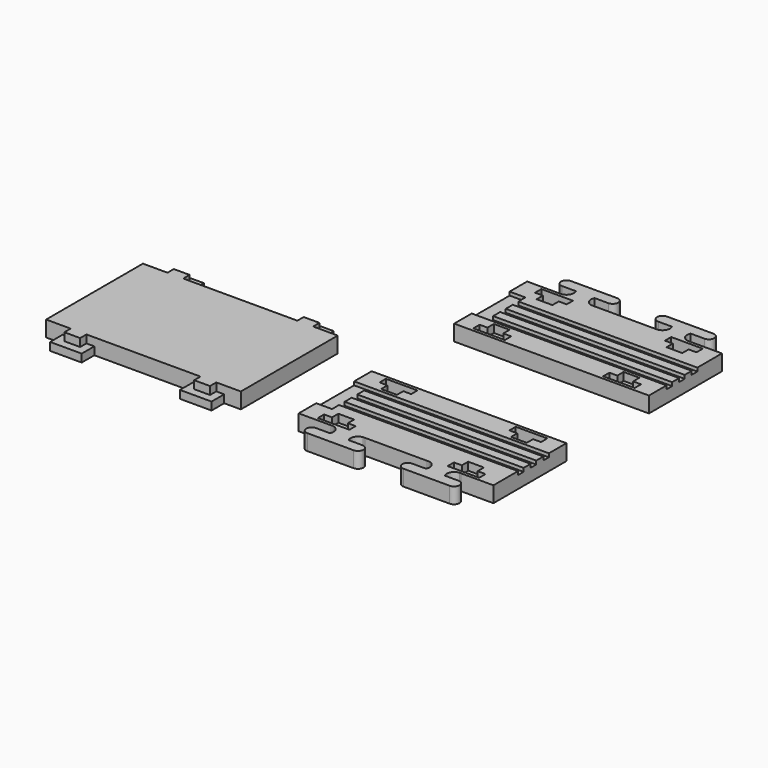
from build123d import *

# Parameters (mm, degrees)
F0_W     = 204
F0_H     = 10
F2_DEPTH = 18
F3_DEPTH = 9
F4_DEPTH = 14


with BuildPart() as f2:
    # F0 (on Top) + F1 (on Top) → F2 (new body)
    with BuildSketch(Plane.XY):
        with BuildLine():
            Line((46.081543, 12.5), (28.081543, 12.5))
            Line((28.081543, 12.5), (28.081543, -12.5))
            Line((28.081543, -12.5), (65.081543, -12.5))
            ThreePointArc((65.081543, -12.5), (66.057675, -12.444206), (67.033806, -12.5))
            ThreePointArc((67.033806, -12.5), (73.631966, -17.008573), (73.638971, -25))
            Line((73.638971, -25), (57.978767, -25))
            ThreePointArc((57.978767, -25), (51.728767, -31.25), (57.978767, -37.5))
            Line((57.978767, -37.5), (110.649899, -37.5))
            ThreePointArc((110.649899, -37.5), (116.899899, -31.25), (110.649899, -25))
            Line((110.649899, -25), (94.989694, -25))
            ThreePointArc((94.989694, -25), (94.996699, -17.008573), (101.594859, -12.5))
            ThreePointArc((101.594859, -12.5), (102.570991, -12.444206), (103.547122, -12.5))
            Line((103.547122, -12.5), (119.848753, -12.5))
            Line((119.848753, -12.5), (158.314333, -12.5))
            Line((158.314333, -12.5), (174.615964, -12.5))
            ThreePointArc((174.615964, -12.5), (175.592095, -12.444206), (176.568227, -12.5))
            ThreePointArc((176.568227, -12.5), (183.166387, -17.008573), (183.173392, -25))
            Line((183.173392, -25), (167.513187, -25))
            ThreePointArc((167.513187, -25), (161.263187, -31.25), (167.513187, -37.5))
            Line((167.513187, -37.5), (220.184319, -37.5))
            ThreePointArc((220.184319, -37.5), (226.434319, -31.25), (220.184319, -25))
            Line((220.184319, -25), (204.524115, -25))
            ThreePointArc((204.524115, -25), (204.53112, -17.008573), (211.12928, -12.5))
            ThreePointArc((211.12928, -12.5), (212.105411, -12.444206), (213.081543, -12.5))
            Line((213.081543, -12.5), (250.081543, -12.5))
            Line((250.081543, -12.5), (250.081543, 12.5))
            Line((250.081543, 12.5), (46.081543, 12.5))
        make_face()
        Polygon((83.081543, -9), (65.081543, -9), (47.081543, -9), (47.081543, 0), (56.081543, 0), (56.081543, 9), (65.081543, 9), (74.081543, 9), (74.081543, 0), (83.081543, 0), align=None, mode=Mode.SUBTRACT)
        Polygon((231.081543, -9), (213.081543, -9), (195.081543, -9), (195.081543, 0), (204.081543, 0), (204.081543, 9), (213.081543, 9), (222.081543, 9), (222.081543, 0), (231.081543, 0), align=None, mode=Mode.SUBTRACT)
        Polygon((176.081543, 91.5), (102.081543, 91.5), (28.081543, 91.5), (28.081543, 66.5), (250.081543, 66.5), (250.081543, 91.5), align=None)
        Polygon((47.081543, 88), (65.081543, 88), (83.081543, 88), (83.081543, 79), (74.081543, 79), (74.081543, 70), (65.081543, 70), (56.081543, 70), (56.081543, 79), (47.081543, 79), align=None, mode=Mode.SUBTRACT)
        Polygon((195.081543, 88), (213.081543, 88), (231.081543, 88), (231.081543, 79), (222.081543, 79), (222.081543, 70), (213.081543, 70), (204.081543, 70), (204.081543, 79), (195.081543, 79), align=None, mode=Mode.SUBTRACT)
        with Locations((148.081543, 53.5)):
            Rectangle(F0_W, F0_H)
        with Locations((148.081543, 35.5)):
            Rectangle(F0_W, F0_H)
        with Locations((148.081543, 17.5)):
            Rectangle(F0_W, F0_H)
        Polygon((250.081543, 234.038093), (28.081543, 234.038093), (28.081543, 209.038093), (102.081543, 209.038093), (176.081543, 209.038093), (250.081543, 209.038093), align=None)
        Polygon((83.081543, 221.538093), (83.081543, 212.538093), (65.081543, 212.538093), (47.081543, 212.538093), (47.081543, 221.538093), (56.081543, 221.538093), (56.081543, 230.538093), (65.081543, 230.538093), (74.081543, 230.538093), (74.081543, 221.538093), align=None, mode=Mode.SUBTRACT)
        Polygon((222.081543, 221.538093), (231.081543, 221.538093), (231.081543, 212.538093), (213.081543, 212.538093), (195.081543, 212.538093), (195.081543, 221.538093), (204.081543, 221.538093), (204.081543, 230.538093), (213.081543, 230.538093), (222.081543, 230.538093), align=None, mode=Mode.SUBTRACT)
        with Locations((148.081543, 247.038093)):
            Rectangle(F0_W, F0_H)
        with Locations((148.081543, 265.038093)):
            Rectangle(F0_W, F0_H)
        with Locations((148.081543, 283.038093)):
            Rectangle(F0_W, F0_H)
        with BuildLine():
            ThreePointArc((183.173392, 325.538093), (183.166387, 317.546666), (176.568227, 313.038093))
            ThreePointArc((176.568227, 313.038093), (175.592095, 312.982299), (174.615964, 313.038093))
            Line((174.615964, 313.038093), (158.314333, 313.038093))
            Line((158.314333, 313.038093), (119.848753, 313.038093))
            Line((119.848753, 313.038093), (103.547122, 313.038093))
            ThreePointArc((103.547122, 313.038093), (95.502076, 316.709684), (94.989694, 325.538093))
            Line((94.989694, 325.538093), (110.649899, 325.538093))
            ThreePointArc((110.649899, 325.538093), (116.899899, 331.788093), (110.649899, 338.038093))
            Line((110.649899, 338.038093), (57.978767, 338.038093))
            ThreePointArc((57.978767, 338.038093), (51.728767, 331.788093), (57.978767, 325.538093))
            Line((57.978767, 325.538093), (73.638971, 325.538093))
            ThreePointArc((73.638971, 325.538093), (73.631966, 317.546666), (67.033806, 313.038093))
            ThreePointArc((67.033806, 313.038093), (66.057675, 312.982299), (65.081543, 313.038093))
            Line((65.081543, 313.038093), (28.081543, 313.038093))
            Line((28.081543, 313.038093), (28.081543, 288.038093))
            Line((28.081543, 288.038093), (46.081543, 288.038093))
            Line((46.081543, 288.038093), (250.081543, 288.038093))
            Line((250.081543, 288.038093), (250.081543, 313.038093))
            Line((250.081543, 313.038093), (213.081543, 313.038093))
            ThreePointArc((213.081543, 313.038093), (212.105411, 312.982299), (211.12928, 313.038093))
            ThreePointArc((211.12928, 313.038093), (204.53112, 317.546666), (204.524115, 325.538093))
            Line((204.524115, 325.538093), (220.184319, 325.538093))
            ThreePointArc((220.184319, 325.538093), (226.434319, 331.788093), (220.184319, 338.038093))
            Line((220.184319, 338.038093), (167.513187, 338.038093))
            ThreePointArc((167.513187, 338.038093), (161.263187, 331.788093), (167.513187, 325.538093))
            Line((167.513187, 325.538093), (183.173392, 325.538093))
        make_face()
        Polygon((74.081543, 291.538093), (65.081543, 291.538093), (56.081543, 291.538093), (56.081543, 300.538093), (47.081543, 300.538093), (47.081543, 309.538093), (65.081543, 309.538093), (83.081543, 309.538093), (83.081543, 300.538093), (74.081543, 300.538093), align=None, mode=Mode.SUBTRACT)
        Polygon((222.081543, 291.538093), (213.081543, 291.538093), (204.081543, 291.538093), (204.081543, 300.538093), (195.081543, 300.538093), (195.081543, 309.538093), (213.081543, 309.538093), (231.081543, 309.538093), (231.081543, 300.538093), (222.081543, 300.538093), align=None, mode=Mode.SUBTRACT)
    with BuildSketch(Plane.XY):
        Polygon((-241.447025, 126.27996), (-260.447025, 126.27996), (-260.447025, -11.72004), (-241.447025, -11.72004), (-232.447025, -11.72004), (-214.447025, -11.72004), (-205.447025, -11.72004), (-93.447025, -11.72004), (-84.447025, -11.72004), (-66.447025, -11.72004), (-57.447025, -11.72004), (-38.447025, -11.72004), (-38.447025, 126.27996), (-57.447025, 126.27996), (-66.447025, 126.27996), (-75.447025, 126.27996), (-84.447025, 126.27996), (-93.447025, 126.27996), (-112.447025, 126.27996), (-186.447025, 126.27996), (-205.447025, 126.27996), (-214.447025, 126.27996), (-232.447025, 126.27996), align=None)
        Polygon((-84.447025, 135.27996), (-84.447025, 126.27996), (-75.447025, 126.27996), (-66.447025, 126.27996), (-66.447025, 135.27996), (-75.447025, 135.27996), align=None)
        Polygon((-66.447025, -11.72004), (-84.447025, -11.72004), (-84.447025, -20.72004), (-75.447025, -20.72004), (-66.447025, -20.72004), align=None)
        Polygon((-214.447025, -11.72004), (-232.447025, -11.72004), (-232.447025, -20.72004), (-223.447025, -20.72004), (-214.447025, -20.72004), align=None)
        Polygon((-232.447025, 135.27996), (-232.447025, 126.27996), (-214.447025, 126.27996), (-214.447025, 135.27996), (-223.447025, 135.27996), align=None)
    extrude(amount=F2_DEPTH)

    # F0 (on Top) + F1 (on Top) → F3 (join)
    with BuildSketch(Plane.XY):
        Polygon((56.081543, 291.538093), (65.081543, 291.538093), (74.081543, 291.538093), (74.081543, 300.538093), (56.081543, 300.538093), align=None)
        Polygon((56.081543, 221.538093), (74.081543, 221.538093), (74.081543, 230.538093), (65.081543, 230.538093), (56.081543, 230.538093), align=None)
        Polygon((204.081543, 221.538093), (222.081543, 221.538093), (222.081543, 230.538093), (213.081543, 230.538093), (204.081543, 230.538093), align=None)
        Polygon((204.081543, 291.538093), (213.081543, 291.538093), (222.081543, 291.538093), (222.081543, 300.538093), (204.081543, 300.538093), align=None)
        Polygon((222.081543, 79), (204.081543, 79), (204.081543, 70), (213.081543, 70), (222.081543, 70), align=None)
        Polygon((74.081543, 70), (74.081543, 79), (56.081543, 79), (56.081543, 70), (65.081543, 70), align=None)
        Polygon((56.081543, 9), (56.081543, 0), (74.081543, 0), (74.081543, 9), (65.081543, 9), align=None)
        Polygon((204.081543, 0), (222.081543, 0), (222.081543, 9), (213.081543, 9), (204.081543, 9), align=None)
    with BuildSketch(Plane.XY):
        Polygon((-93.447025, 144.27996), (-93.447025, 126.27996), (-84.447025, 126.27996), (-84.447025, 135.27996), (-75.447025, 135.27996), (-66.447025, 135.27996), (-66.447025, 126.27996), (-57.447025, 126.27996), (-57.447025, 144.27996), (-75.447025, 144.27996), align=None)
        Polygon((-241.447025, 144.27996), (-241.447025, 126.27996), (-232.447025, 126.27996), (-232.447025, 135.27996), (-223.447025, 135.27996), (-214.447025, 135.27996), (-214.447025, 126.27996), (-205.447025, 126.27996), (-205.447025, 144.27996), (-223.447025, 144.27996), align=None)
        Polygon((-232.447025, -11.72004), (-241.447025, -11.72004), (-241.447025, -29.72004), (-223.447025, -29.72004), (-205.447025, -29.72004), (-205.447025, -11.72004), (-214.447025, -11.72004), (-214.447025, -20.72004), (-223.447025, -20.72004), (-232.447025, -20.72004), align=None)
        Polygon((-84.447025, -11.72004), (-93.447025, -11.72004), (-93.447025, -29.72004), (-75.447025, -29.72004), (-57.447025, -29.72004), (-57.447025, -11.72004), (-66.447025, -11.72004), (-66.447025, -20.72004), (-75.447025, -20.72004), (-84.447025, -20.72004), align=None)
    extrude(amount=F3_DEPTH)

    # F0 (on Top) → F4 (join)
    with BuildSketch(Plane.XY):
        Polygon((46.081543, 252.038093), (28.081543, 252.038093), (28.081543, 234.038093), (250.081543, 234.038093), (250.081543, 242.038093), (46.081543, 242.038093), align=None)
        Polygon((250.081543, 252.038093), (250.081543, 260.038093), (46.081543, 260.038093), (46.081543, 270.038093), (28.081543, 270.038093), (28.081543, 252.038093), (46.081543, 252.038093), align=None)
        Polygon((250.081543, 270.038093), (250.081543, 278.038093), (46.081543, 278.038093), (46.081543, 288.038093), (28.081543, 288.038093), (28.081543, 270.038093), (46.081543, 270.038093), align=None)
        Polygon((250.081543, 66.5), (28.081543, 66.5), (28.081543, 48.5), (46.081543, 48.5), (46.081543, 58.5), (250.081543, 58.5), align=None)
        Polygon((46.081543, 48.5), (28.081543, 48.5), (28.081543, 30.5), (46.081543, 30.5), (46.081543, 40.5), (250.081543, 40.5), (250.081543, 48.5), align=None)
        Polygon((46.081543, 30.5), (28.081543, 30.5), (28.081543, 12.5), (46.081543, 12.5), (46.081543, 22.5), (250.081543, 22.5), (250.081543, 30.5), align=None)
    extrude(amount=F4_DEPTH)


solid = f2.part
